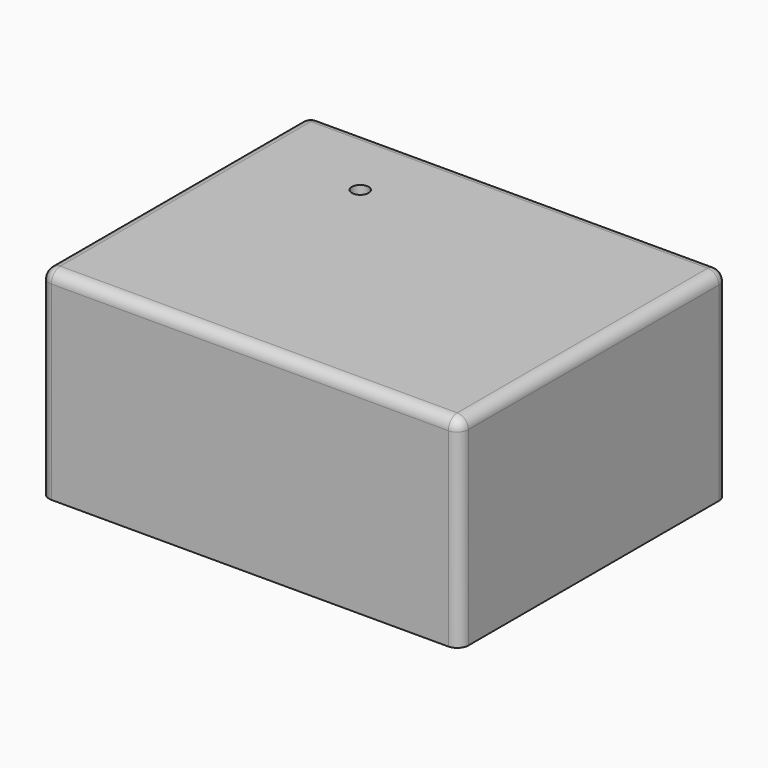
from build123d import *

# Parameters (mm, degrees)
F0_W      = 75
F0_H      = 60
F1_DEPTH  = 36
F2_R      = 2
F3_R      = 2
F4_R      = 2
F5_R      = 2
F6_R      = 2
F7_T      = -2.25
F8_R      = 2.5
F9_DEPTH  = 27
F10_W     = 13
F10_H     = 8.5
F11_DEPTH = 25
F12_R     = 1.5
F13_DEPTH = 25


with BuildPart() as f1:
    # F0 (on Top) → F1 (new body)
    with BuildSketch(Plane.XY):
        Rectangle(F0_W, F0_H)
    extrude(amount=F1_DEPTH)

    # F2
    f2_edges = [f1.edges().sort_by_distance(p)[0] for p in [
        (-37.5, 30, 18),
    ]]
    fillet(f2_edges, radius=F2_R)

    # F3
    f3_edges = [f1.edges().sort_by_distance(p)[0] for p in [
        (37.5, 30, 18),
    ]]
    fillet(f3_edges, radius=F3_R)

    # F4
    f4_edges = [f1.edges().sort_by_distance(p)[0] for p in [
        (37.5, -30, 18),
    ]]
    fillet(f4_edges, radius=F4_R)

    # F5
    f5_edges = [f1.edges().sort_by_distance(p)[0] for p in [
        (-37.5, -30, 18),
    ]]
    fillet(f5_edges, radius=F5_R)

    # F6
    f6_edges = [f1.edges().sort_by_distance(p)[0] for p in [
        (37.5, 0, 36),
        (0, -30, 36),
        (-37.5, 0, 36),
        (-36.914214, -29.414214, 36),
        (36.914214, -29.414214, 36),
        (-36.914214, 29.414214, 36),
        (36.914214, 29.414214, 36),
        (0, 30, 36),
    ]]
    fillet(f6_edges, radius=F6_R)

    # F7
    f7_openings = [f1.faces().sort_by_distance(p)[0] for p in [
        (0, 0, 0),
    ]]
    offset(amount=F7_T, openings=f7_openings)

    # F8 (on face) → F9 (join)
    with BuildSketch(Plane(origin=(0, 0, 33.75), x_dir=(1, 0, 0), z_dir=(0, 0, -1))):
        with Locations((-32.636665, 0)):
            Circle(F8_R)
        with Locations((32.640941, 0)):
            Circle(F8_R)
    extrude(amount=F9_DEPTH)

    # F10 (on face) → F11 (cut)
    with BuildSketch(Plane(origin=(-37.5, 0, 0), x_dir=(0, -1, 0), z_dir=(-1, 0, 0))):
        with Locations((14.25, 27.55)):
            Rectangle(F10_W, F10_H)
    extrude(amount=-F11_DEPTH, mode=Mode.SUBTRACT)

    # F12 (on face) → F13 (cut)
    with BuildSketch(Plane.XY.offset(36)):
        with Locations((-17.2, 16.2)):
            Circle(F12_R)
    extrude(amount=-F13_DEPTH, mode=Mode.SUBTRACT)


solid = f1.part
